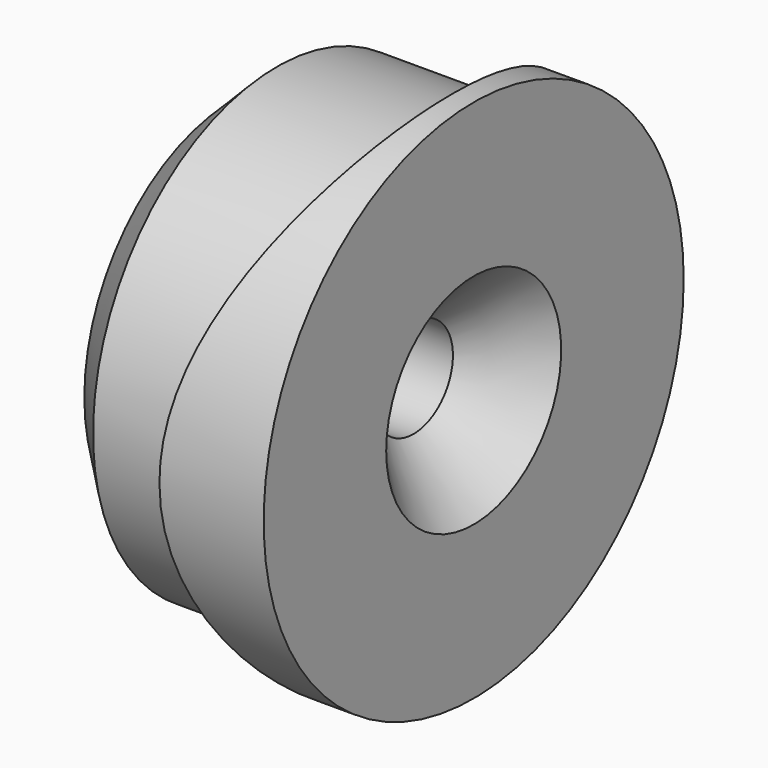
from build123d import *

# Parameters (mm, degrees)
F0_R           = 12
F1_DEPTH       = 5
F2_R           = 21
F3_DEPTH       = 12.001
F3_DEPTH_BACK  = 12.001
F4_R           = 10.5
F5_DEPTH       = 6
F5_DEPTH_BACK  = 4
F6_SIZE        = 2
F8_D           = 4.5
F8_CSINK_D     = 10
F8_CSINK_ANGLE = 90


with BuildPart() as f1:
    # F0 (on Right) → F1 (new body)
    with BuildSketch(Plane.YZ):
        Circle(F0_R)
    extrude(amount=F1_DEPTH)

    # F2 (on Top) → F3 (cut, two sides)
    with BuildSketch(Plane.XY) as f3_sk:
        with Locations((-17, 0)):
            Circle(F2_R)
    extrude(amount=-F3_DEPTH, mode=Mode.SUBTRACT)
    extrude(f3_sk.sketch, amount=F3_DEPTH_BACK, mode=Mode.SUBTRACT)

    # F4 (on Right) → F5 (join, two sides)
    with BuildSketch(Plane.YZ) as f5_sk:
        Circle(F4_R)
    extrude(amount=-F5_DEPTH)
    extrude(f5_sk.sketch, amount=F5_DEPTH_BACK)

    # F6
    f6_edges = [f1.edges().sort_by_distance(p)[0] for p in [
        (-6, -10.5, 0),
    ]]
    chamfer(f6_edges, length=F6_SIZE)

    # F8 (through all)
    with Locations(Plane.YZ.offset(5)):
        with Locations((0, 0)):
            CounterSinkHole(F8_D / 2, F8_CSINK_D / 2, counter_sink_angle=F8_CSINK_ANGLE)


solid = f1.part
